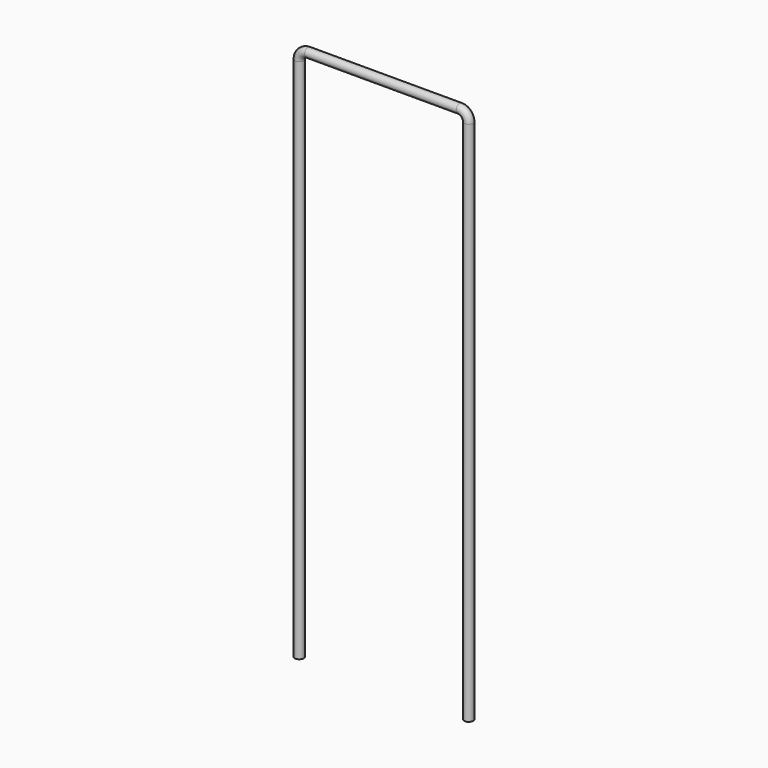
from build123d import *

# Parameters (mm, degrees)
F0_R = 0.25


with BuildPart() as f2:
    # F2: sweep along a path in F1
    with BuildLine(Plane.XZ) as f2_path:
        Line((0, 0), (0, 29.5))
        ThreePointArc((0, 29.5), (0.146447, 29.853553), (0.5, 30))
        Line((0.5, 30), (9, 30))
        ThreePointArc((9, 30), (9.353553, 29.853553), (9.5, 29.5))
        Line((9.5, 29.5), (9.5, 0))
    # F0 (on Top) → F2 (sweep)
    with BuildSketch(Plane.XY):
        Circle(F0_R)
    sweep(path=f2_path.line)


solid = f2.part
